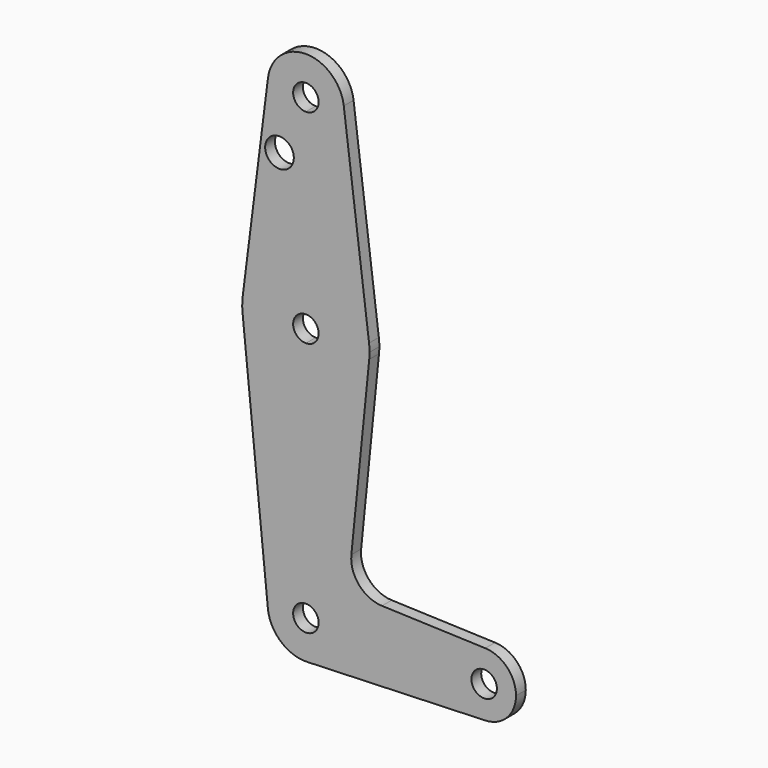
from build123d import *

# Parameters (mm, degrees)
F0_R     = 3.5767094728
F1_DEPTH = 3.048


with BuildPart() as f1:
    # F0 (on Front) → F1 (new body)
    with BuildSketch(Plane.XZ):
        with BuildLine():
            ThreePointArc((9.525, 114.3), (6.7351920908, 107.5648079092), (0, 104.775))
            Line((0, 104.775), (0, 79.375))
            ThreePointArc((0, 79.375), (10.5003255158, 75.40625), (15.7504882737, 65.484375))
            Line((15.7504882737, 65.484375), (9.4502929642, 115.490625))
            ThreePointArc((9.4502929642, 115.490625), (9.5063048942, 114.896483242), (9.525, 114.3))
        make_face()
        with BuildLine():
            ThreePointArc((0, 47.625), (-10.6492737428, 51.7267849017), (-15.7954255641, 61.9125))
            Line((-15.7954255641, 61.9125), (-9.4772553384, -0.9525))
            ThreePointArc((-9.4772553384, -0.9525), (-7.063929059, 6.3895642457), (0, 9.525))
            Line((0, 9.525), (0, 47.625))
        make_face()
        with BuildLine():
            ThreePointArc((9.525, 0), (6.8544082857, -6.6138273378), (0.3401785714, -9.5189234444))
            Line((0.3401785714, -9.5189234444), (44.7334821429, -7.9324362036))
            ThreePointArc((44.7334821429, -7.9324362036), (38.9384772185, -5.7120069047), (36.5125, 0))
            Line((36.5125, 0), (9.525, 0))
        make_face()
        with BuildLine():
            ThreePointArc((-9.4502929642, 115.490625), (-7.14375, 107.9998046905), (0, 104.775))
            ThreePointArc((0, 104.775), (6.7351920908, 107.5648079092), (9.525, 114.3))
            ThreePointArc((9.525, 114.3), (9.5063048942, 114.896483242), (9.4502929642, 115.490625))
            ThreePointArc((9.4502929642, 115.490625), (0, 123.825), (-9.4502929642, 115.490625))
        make_face()
        with BuildLine():
            ThreePointArc((3.175, 114.3), (2.2450640303, 112.0549359697), (0, 111.125))
            ThreePointArc((0, 111.125), (-2.2450640303, 116.5450640303), (3.175, 114.3))
        make_face(mode=Mode.SUBTRACT)
        with BuildLine():
            ThreePointArc((36.5125, 0), (38.9384772185, -5.7120069047), (44.7334821429, -7.9324362036))
            ThreePointArc((44.7334821429, -7.9324362036), (50.1620069047, -5.5115227815), (52.3875, 0))
            ThreePointArc((52.3875, 0), (50.1620069047, 5.5115227815), (44.7334821429, 7.9324362036))
            ThreePointArc((44.7334821429, 7.9324362036), (38.9384772185, 5.7120069047), (36.5125, 0))
        make_face()
        with BuildLine():
            ThreePointArc((47.625, 0), (44.45, -3.175), (41.275, 0))
            ThreePointArc((41.275, 0), (44.45, 3.175), (47.625, 0))
        make_face(mode=Mode.SUBTRACT)
        with BuildLine():
            ThreePointArc((15.7504882737, 65.484375), (10.5003255158, 75.40625), (0, 79.375))
            Line((0, 79.375), (0, 66.675))
            ThreePointArc((0, 66.675), (2.2450640303, 65.7450640303), (3.175, 63.5))
            ThreePointArc((3.175, 63.5), (2.2450640303, 61.2549359697), (0, 60.325))
            Line((0, 60.325), (0, 47.625))
            ThreePointArc((0, 47.625), (10.6492737428, 51.7267849017), (15.7954255641, 61.9125))
            ThreePointArc((15.7954255641, 61.9125), (15.8550939106, 62.7052534459), (15.875, 63.5))
            ThreePointArc((15.875, 63.5), (15.8438414904, 64.4941387366), (15.7504882737, 65.484375))
        make_face()
        with BuildLine():
            Line((0, 66.675), (0, 79.375))
            ThreePointArc((0, 79.375), (-10.5003255158, 75.40625), (-15.7504882737, 65.484375))
            ThreePointArc((-15.7504882737, 65.484375), (-15.8737438155, 63.6997054867), (-15.7954255641, 61.9125))
            ThreePointArc((-15.7954255641, 61.9125), (-10.6492737428, 51.7267849017), (0, 47.625))
            Line((0, 47.625), (0, 60.325))
            ThreePointArc((0, 60.325), (-3.175, 63.5), (0, 66.675))
        make_face()
        with BuildLine():
            ThreePointArc((0, 9.525), (-7.063929059, 6.3895642457), (-9.4772553384, -0.9525))
            ThreePointArc((-9.4772553384, -0.9525), (-6.2623833816, -7.1769199091), (0.3401785714, -9.5189234444))
            ThreePointArc((0.3401785714, -9.5189234444), (6.8544082857, -6.6138273378), (9.525, 0))
            Line((9.525, 0), (3.175, 0))
            ThreePointArc((3.175, 0), (-2.2450640303, -2.2450640303), (0, 3.175))
            Line((0, 3.175), (0, 9.525))
        make_face()
        with BuildLine():
            ThreePointArc((15.7954255641, 61.9125), (10.6492737428, 51.7267849017), (0, 47.625))
            Line((0, 47.625), (0, 9.525))
            ThreePointArc((0, 9.525), (6.7351920908, 6.7351920908), (9.525, 0))
            Line((9.525, 0), (36.5125, 0))
            ThreePointArc((36.5125, 0), (38.9384772185, 5.7120069047), (44.7334821429, 7.9324362036))
            Line((44.7334821429, 7.9324362036), (18.9676000005, 8.8532337108))
            ThreePointArc((18.9676000005, 8.8532337108), (13.2611998974, 11.5713591498), (11.3411865923, 17.5933818124))
            Line((11.3411865923, 17.5933818124), (15.7954255641, 61.9125))
        make_face()
        with BuildLine():
            Line((0, 79.375), (0, 104.775))
            ThreePointArc((0, 104.775), (-7.14375, 107.9998046905), (-9.4502929642, 115.490625))
            Line((-9.4502929642, 115.490625), (-15.7504882737, 65.484375))
            ThreePointArc((-15.7504882737, 65.484375), (-10.5003255158, 75.40625), (0, 79.375))
        make_face()
        with Locations((-6.581579335, 100.0252)):
            Circle(F0_R, mode=Mode.SUBTRACT)
        with BuildLine():
            ThreePointArc((9.525, 0), (6.7351920908, 6.7351920908), (0, 9.525))
            Line((0, 9.525), (0, 3.175))
            ThreePointArc((0, 3.175), (2.2450640303, 2.2450640303), (3.175, 0))
            Line((3.175, 0), (9.525, 0))
        make_face()
    extrude(amount=F1_DEPTH)


solid = f1.part
